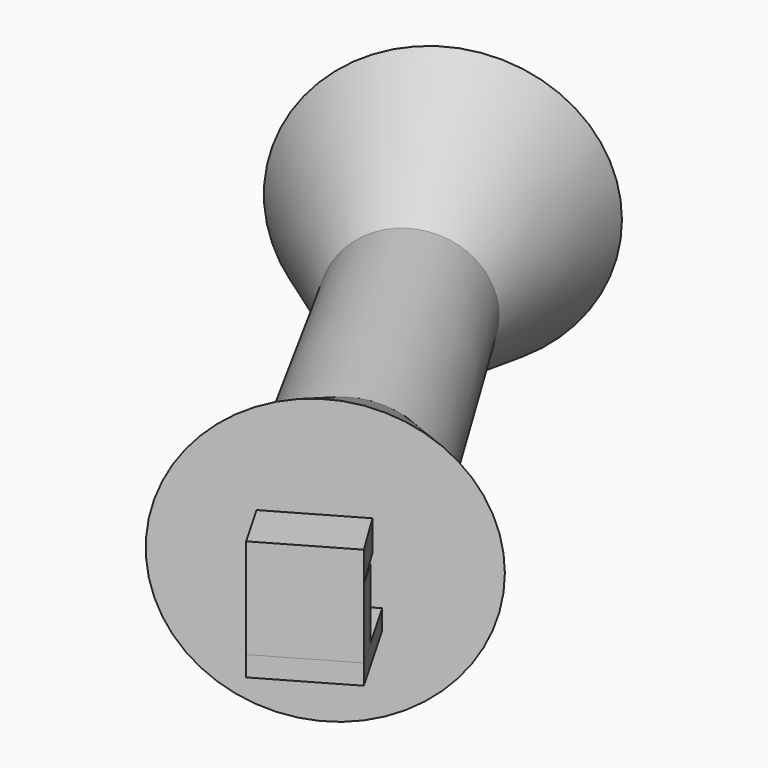
from build123d import *

# Parameters (mm, degrees)
F2_W      = 7.8210735228
F2_H      = 1.6869045794
F3_DEPTH  = 7.874
F5_DEPTH  = 5.842
F7_DEPTH  = 2.54
F8_W      = 7.2907346766
F8_H      = 1.9461095799
F9_DEPTH  = 5.08
F11_DEPTH = 5.08
F13_DEPTH = 1.016


with BuildPart() as f1:
    # F0 (on Top) → F1 (revolve)
    with BuildSketch(Plane.XY):
        Polygon((9.738479662, -15.3682792879), (-3.4222373906, 6.3731869042), (-5.6319757583, 22.0445621817), (-15.939033498, 16.113988769), (9.3961827512, -27.9174258268), (19.7350436062, -21.9685532335), align=None)
    revolve(axis=Axis((-3.2714253734, -5.9017185289, 0), (0.4987248594, -0.8667603559, 0)))

    # F2 (on face) → F3 (join)
    with BuildSketch(Plane(origin=(14.4050829924, -25.0353569234, 0), x_dir=(0.8667603559, 0.4987248594, 0), z_dir=(0.4987248594, -0.8667603559, 0))):
        with Locations((-5.9160405071, -4.0938784368)):
            Rectangle(F2_W, F2_H)
    extrude(amount=F3_DEPTH)

    # F4 (on face) → F5 (join)
    with BuildSketch(Plane.XY.offset(-3.2504261471)):
        Polygon((15.1675006282, -30.3816657685), (8.3885041579, -34.2822295615), (9.8147549245, -36.7609863326), (16.5937513949, -32.8604225396), align=None)
    extrude(amount=F5_DEPTH)

    # F6 (on face) → F7 (join)
    with BuildSketch(Plane.XY.offset(2.5915738529)):
        Polygon((9.8147549245, -36.7609863326), (16.5937513949, -32.8604225396), (14.2455248972, -29.0196318337), (7.5704112418, -32.8604225396), align=None)
    extrude(amount=F7_DEPTH)

    # F8 (on face) → F9 (join)
    with BuildSketch(Plane(origin=(-10.9301332567, 18.9960576725, 0), x_dir=(-0.8667603559, -0.4987248594, 0), z_dir=(-0.4987248594, 0.8667603559, 0))):
        with Locations((6.4960370073, 0.9730547899)):
            Rectangle(F8_W, F8_H)
    extrude(amount=F9_DEPTH)

    # F10 (on face) → F11 (join)
    with BuildSketch(Plane(origin=(0, 0, 0), x_dir=(1, 0, 0), z_dir=(0, 0, -1))):
        Polygon((-22.2538227827, -18.3414298242), (-15.9345029994, -21.9775004507), (-14.6677418565, -19.7759291467), (-20.9870616398, -16.1398585201), align=None)
    extrude(amount=F11_DEPTH)

    # F12 (on face) → F13 (join)
    with BuildSketch(Plane(origin=(0, 0, -5.08), x_dir=(1, 0, 0), z_dir=(0, 0, -1))):
        Polygon((-22.2538227827, -18.3414298242), (-15.9345029994, -21.9775004507), (-14.1230425955, -18.8292674424), (-20.4423623788, -15.1931968158), align=None)
    extrude(amount=F13_DEPTH)


solid = f1.part
